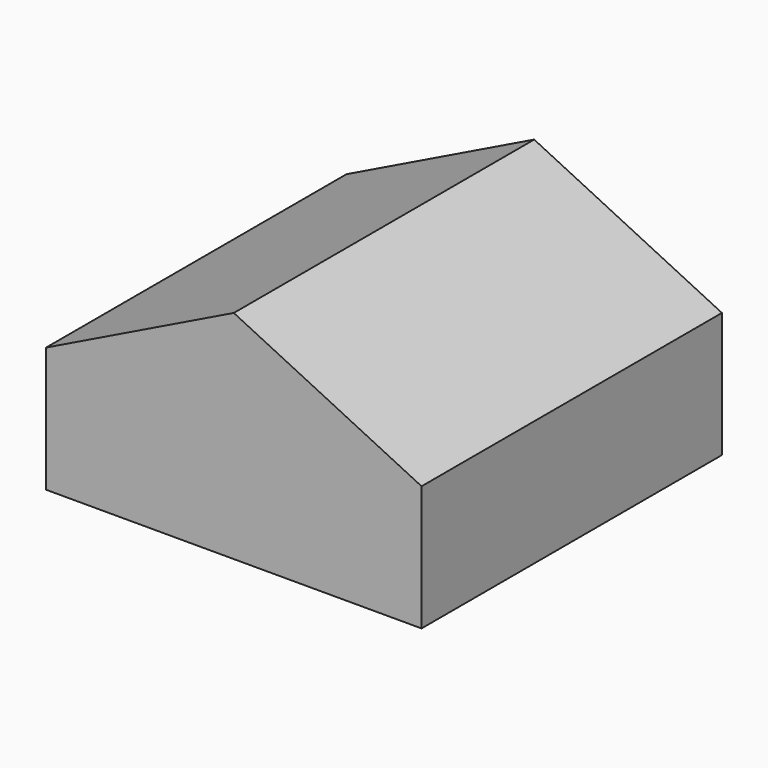
from build123d import *

# Parameters (mm, degrees)
F0_W     = 76.2
F0_H     = 37.6850995183
F0_H_2   = 38.5149004817
F1_DEPTH = 25.4
F3_DEPTH = 76.2


with BuildPart() as f1:
    # F0 (on Top) → F1 (new body)
    with BuildSketch(Plane.XY):
        with Locations((-5.4470213876, 18.8425497591)):
            Rectangle(F0_W, F0_H)
        with Locations((-5.4470213876, -19.2574502409)):
            Rectangle(F0_W, F0_H_2)
    extrude(amount=F1_DEPTH)

    # F2 (on face) → F3 (join)
    with BuildSketch(Plane.XZ.offset(38.5149004817)):
        Polygon((-43.5470213876, 25.4), (32.6529786124, 25.4), (-5.4470213876, 43.9809113741), align=None)
    extrude(amount=-F3_DEPTH)


solid = f1.part
